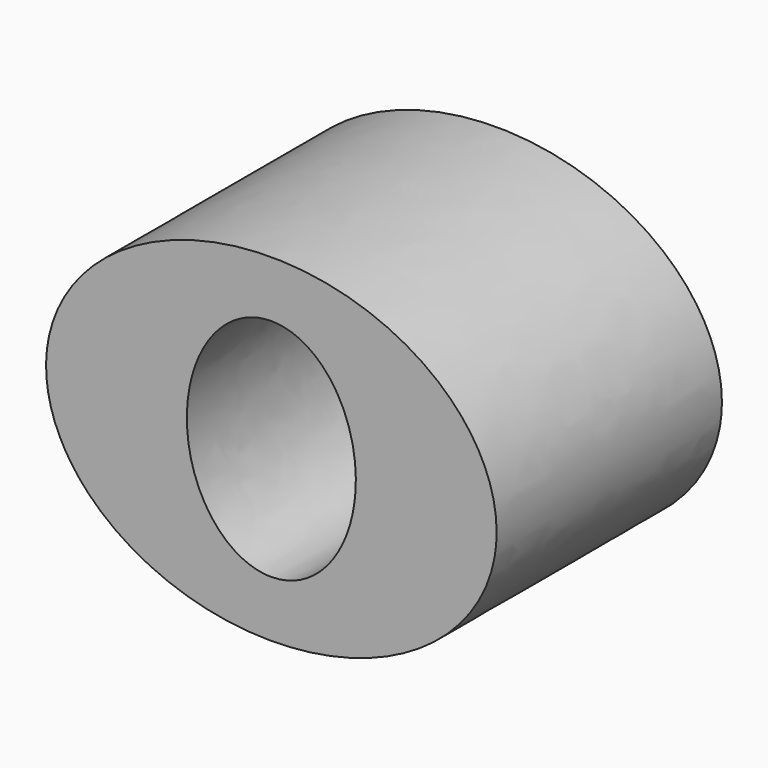
from build123d import *

# Parameters (mm, degrees)
F1_DEPTH = 50


with BuildPart() as f1:
    # F0 (on Front) → F1 (new body)
    with BuildSketch(Plane.XZ):
        with BuildLine():
            add(Edge.make_bspline(
                [(40, 0), (40, 51.961524), (-20, 25.980762), (-80, 0), (-20, -25.980762), (40, -51.961524), (40, 0)],
                knots=[0, 0, 0, 2.094395, 2.094395, 4.18879, 4.18879, 6.283185, 6.283185, 6.283185], degree=2, weights=[1, 0.5, 1, 0.5, 1, 0.5, 1]))
        make_face()
        with BuildLine():
            add(Edge.make_bspline(
                [(0, -20), (25.980762, -20), (12.990381, 10), (0, 40), (-12.990381, 10), (-25.980762, -20), (0, -20)],
                knots=[0, 0, 0, 2.094395, 2.094395, 4.18879, 4.18879, 6.283185, 6.283185, 6.283185], degree=2, weights=[1, 0.5, 1, 0.5, 1, 0.5, 1]))
        make_face(mode=Mode.SUBTRACT)
    extrude(amount=F1_DEPTH)


solid = f1.part
